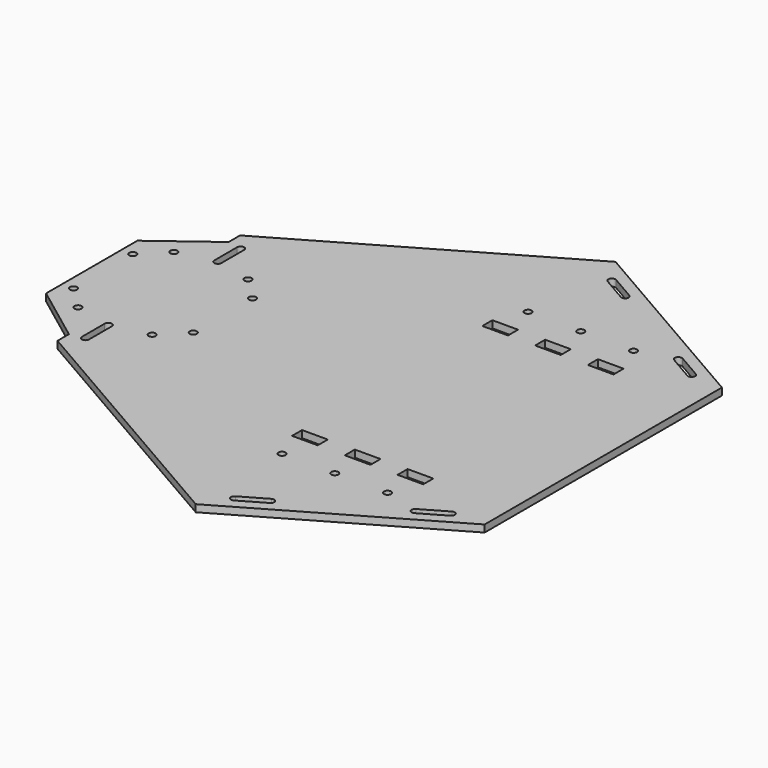
from build123d import *

# Parameters (mm, degrees)
F1_DEPTH = 3.175
F2_R     = 1.5875
F2_W     = 11.43
F2_H     = 5.588
F3_DEPTH = 25.4


with BuildPart() as f1:
    # F0 (on Top) → F1 (new body)
    with BuildSketch(Plane.XY):
        Polygon((-79.823994, 0), (-105.223994, -19.05), (-105.223994, -69.85), (-79.823994, -88.9), (-79.823994, -95.25), (34.560641, -161.29), (122.548823, -110.49), (122.548823, 21.59), (34.560641, 72.39), (-79.823994, 6.35), align=None)
    extrude(amount=F1_DEPTH)

    # F2 (on face) → F3 (cut)
    with BuildSketch(Plane.XY.offset(3.175)):
        with Locations((-100.143994, -27.94)):
            Circle(F2_R)
        with Locations((-89.983994, -17.78)):
            Circle(F2_R)
        with Locations((-56.963994, -17.78)):
            Circle(F2_R)
        with Locations((-46.803994, -27.94)):
            Circle(F2_R)
        with Locations((-46.803994, -60.96)):
            Circle(F2_R)
        with Locations((-56.963994, -71.12)):
            Circle(F2_R)
        with Locations((-89.983994, -71.12)):
            Circle(F2_R)
        with Locations((-100.143994, -60.96)):
            Circle(F2_R)
        with BuildLine():
            Line((-75.061494, -74.93), (-75.061494, -87.63))
            ThreePointArc((-75.061494, -87.63), (-73.473994, -89.2175), (-71.886494, -87.63))
            Line((-71.886494, -87.63), (-71.886494, -74.93))
            ThreePointArc((-71.886494, -74.93), (-73.473994, -73.3425), (-75.061494, -74.93))
        make_face()
        with BuildLine():
            Line((-71.886494, -13.97), (-71.886494, -1.27))
            ThreePointArc((-71.886494, -1.27), (-73.473994, 0.3175), (-75.061494, -1.27))
            Line((-75.061494, -1.27), (-75.061494, -13.97))
            ThreePointArc((-75.061494, -13.97), (-73.473994, -15.5575), (-71.886494, -13.97))
        make_face()
        with Locations((34.283823, 8.509)):
            Rectangle(F2_W, F2_H)
        with Locations((57.778823, 8.509)):
            Rectangle(F2_W, F2_H)
        with Locations((81.273823, 8.509)):
            Rectangle(F2_W, F2_H)
        with Locations((57.778823, 24.003)):
            Circle(F2_R)
        with Locations((34.283823, 24.003)):
            Circle(F2_R)
        with Locations((81.273823, -97.409)):
            Rectangle(F2_W, F2_H)
        with Locations((57.778823, -97.409)):
            Rectangle(F2_W, F2_H)
        with Locations((34.283823, -97.409)):
            Rectangle(F2_W, F2_H)
        with Locations((34.283823, -112.903)):
            Circle(F2_R)
        with Locations((57.778823, -112.903)):
            Circle(F2_R)
        with Locations((81.273823, -112.903)):
            Circle(F2_R)
        with BuildLine():
            ThreePointArc((109.16905, -112.715554), (107.000485, -112.134489), (107.58155, -109.965923))
            Line((107.58155, -109.965923), (96.583027, -116.315923))
            ThreePointArc((96.583027, -116.315923), (98.170527, -116.315923), (98.964277, -117.690739))
            ThreePointArc((98.964277, -117.690739), (98.751593, -118.484489), (98.170527, -119.065554))
            Line((98.170527, -119.065554), (109.16905, -112.715554))
        make_face()
        with BuildLine():
            ThreePointArc((98.964277, -117.690739), (98.170527, -116.315923), (96.583027, -116.315923))
            ThreePointArc((96.583027, -116.315923), (96.001962, -118.484489), (98.170527, -119.065554))
            ThreePointArc((98.170527, -119.065554), (98.751593, -118.484489), (98.964277, -117.690739))
        make_face()
        with BuildLine():
            ThreePointArc((109.16905, -112.715554), (109.750115, -112.134489), (109.9628, -111.340739))
            ThreePointArc((109.9628, -111.340739), (109.16905, -109.965923), (107.58155, -109.965923))
            ThreePointArc((107.58155, -109.965923), (107.000485, -112.134489), (109.16905, -112.715554))
        make_face()
        with BuildLine():
            Line((52.588937, -141.715923), (41.590414, -148.065923))
            ThreePointArc((41.590414, -148.065923), (41.009349, -150.234489), (43.177914, -150.815554))
            Line((43.177914, -150.815554), (54.176437, -144.465554))
            ThreePointArc((54.176437, -144.465554), (54.757502, -142.296989), (52.588937, -141.715923))
        make_face()
        with BuildLine():
            Line((96.583027, 27.415923), (107.58155, 21.065923))
            ThreePointArc((107.58155, 21.065923), (109.750115, 21.646989), (109.16905, 23.815554))
            Line((109.16905, 23.815554), (98.170527, 30.165554))
            ThreePointArc((98.170527, 30.165554), (96.001962, 29.584489), (96.583027, 27.415923))
        make_face()
        with BuildLine():
            Line((54.176437, 55.565554), (43.177914, 61.915554))
            ThreePointArc((43.177914, 61.915554), (41.009349, 61.334489), (41.590414, 59.165923))
            Line((41.590414, 59.165923), (52.588937, 52.815923))
            ThreePointArc((52.588937, 52.815923), (54.757502, 53.396989), (54.176437, 55.565554))
        make_face()
        with Locations((81.273823, 24.003)):
            Circle(F2_R)
    extrude(amount=-F3_DEPTH, mode=Mode.SUBTRACT)


solid = f1.part
